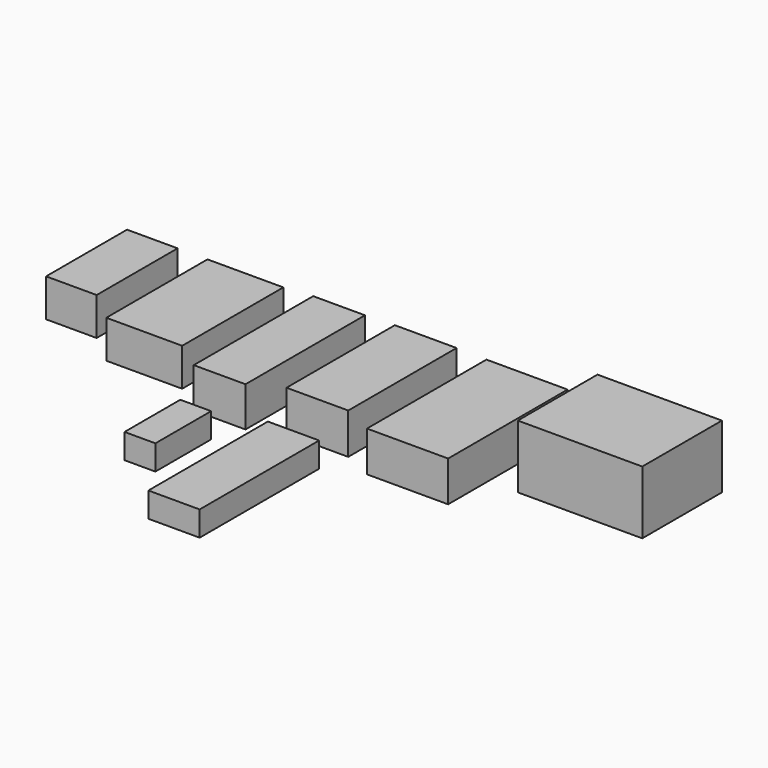
from build123d import *

# Parameters (mm, degrees)
F0_W     = 50.8
F0_H     = 101.6
F0_W_2   = 76.2
F0_H_2   = 127
F1_DEPTH = 38
F0_W_3   = 52
F0_H_3   = 150
F2_DEPTH = 40
F0_W_4   = 81.5
F3_DEPTH = 40.5
F0_W_5   = 125
F0_H_4   = 100
F4_DEPTH = 63.5
F0_W_6   = 31
F0_H_5   = 70
F5_DEPTH = 25
F0_W_7   = 62
F0_H_6   = 136
F6_DEPTH = 41
F0_W_8   = 51.5
F7_DEPTH = 25


with BuildPart() as f1:
    # F0 (on Top) → F1 (new body)
    with BuildSketch(Plane.XY):
        with Locations((-111.830192, 53.35411)):
            Rectangle(F0_W, F0_H)
        with Locations((-18.330192, 40.65411)):
            Rectangle(F0_W_2, F0_H_2)
    extrude(amount=F1_DEPTH)


with BuildPart() as f2:
    # F0 (on Top) → F2 (new body)
    with BuildSketch(Plane.XY):
        with Locations((75.769808, 29.15411)):
            Rectangle(F0_W_3, F0_H_3)
    extrude(amount=F2_DEPTH)


with BuildPart() as f3:
    # F0 (on Top) → F3 (new body)
    with BuildSketch(Plane.XY):
        with Locations((264.519808, 29.15411)):
            Rectangle(F0_W_4, F0_H_3)
    extrude(amount=F3_DEPTH)


with BuildPart() as f4:
    # F0 (on Top) → F4 (new body)
    with BuildSketch(Plane.XY):
        with Locations((397.769808, 54.15411)):
            Rectangle(F0_W_5, F0_H_4)
    extrude(amount=F4_DEPTH)


with BuildPart() as f5:
    # F0 (on Top) → F5 (new body)
    with BuildSketch(Plane.XY):
        with Locations((75.769808, -110.84589)):
            Rectangle(F0_W_6, F0_H_5)
    extrude(amount=F5_DEPTH)


with BuildPart() as f6:
    # F0 (on Top) → F6 (new body)
    with BuildSketch(Plane.XY):
        with Locations((162.769808, 36.15411)):
            Rectangle(F0_W_7, F0_H_6)
    extrude(amount=F6_DEPTH)


with BuildPart() as f7:
    # F0 (on Top) → F7 (new body)
    with BuildSketch(Plane.XY):
        with Locations((162.769808, -136.84589)):
            Rectangle(F0_W_8, F0_H_3)
    extrude(amount=F7_DEPTH)


solid = Compound([f1.part, f2.part, f3.part, f4.part, f5.part, f6.part, f7.part])
